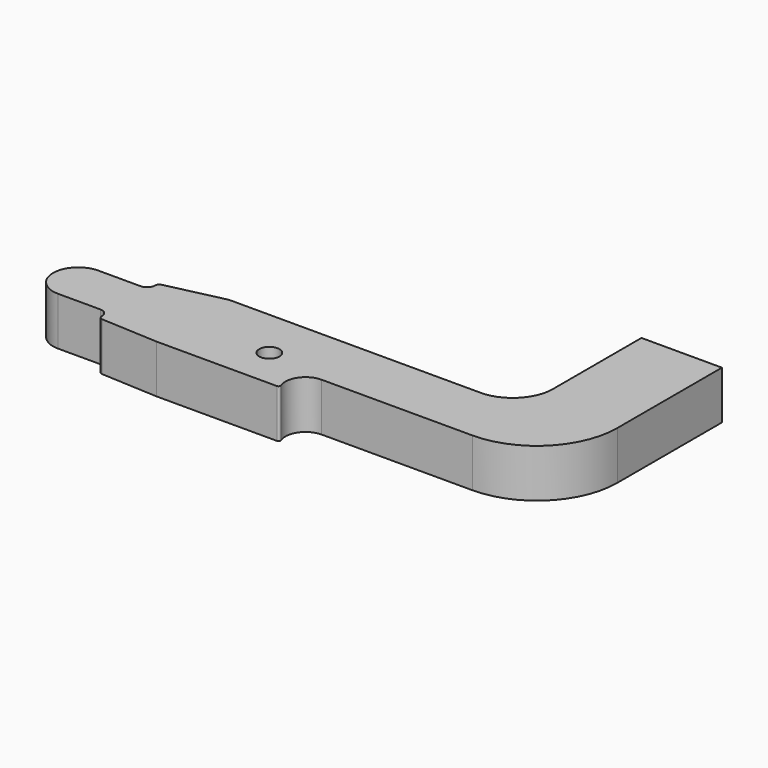
from build123d import *

# Parameters (mm, degrees)
F0_R     = 1
F1_DEPTH = 4.8


with BuildPart() as f1:
    # F0 (on Top) → F1 (new body)
    with BuildSketch(Plane.XY):
        with BuildLine():
            ThreePointArc((40, 4), (45.656854, 6.343146), (48, 12))
            Line((48, 12), (48, 25))
            Line((48, 25), (40, 25))
            Line((40, 25), (40, 14))
            ThreePointArc((40, 14), (38.828427, 11.171573), (36, 10))
            Line((36, 10), (11, 10))
            Line((11, 10), (5.311352, 8.707125))
            ThreePointArc((5.311352, 8.707125), (5.087383, 8.566612), (5, 8.317072))
            Line((5, 8.317072), (5, 8.3))
            ThreePointArc((5, 8.3), (4.765685, 7.734315), (4.2, 7.5))
            Line((4.2, 7.5), (0, 7.5))
            ThreePointArc((0, 7.5), (-2.5, 5), (0, 2.5))
            Line((0, 2.5), (4.2, 2.5))
            ThreePointArc((4.2, 2.5), (4.765685, 2.265685), (5, 1.7))
            Line((5, 1.7), (5, 1.682928))
            ThreePointArc((5, 1.682928), (5.087383, 1.433388), (5.311352, 1.292875))
            Line((5.311352, 1.292875), (11, 1))
            Line((11, 1), (22.95061, 1))
            ThreePointArc((22.95061, 1), (23.115754, 1.087185), (23.136918, 1.272727))
            ThreePointArc((23.136918, 1.272727), (23.348554, 3.128152), (25, 4))
            Line((25, 4), (40, 4))
        make_face()
        with Locations((19, 5)):
            Circle(F0_R, mode=Mode.SUBTRACT)
    extrude(amount=F1_DEPTH)


solid = f1.part
